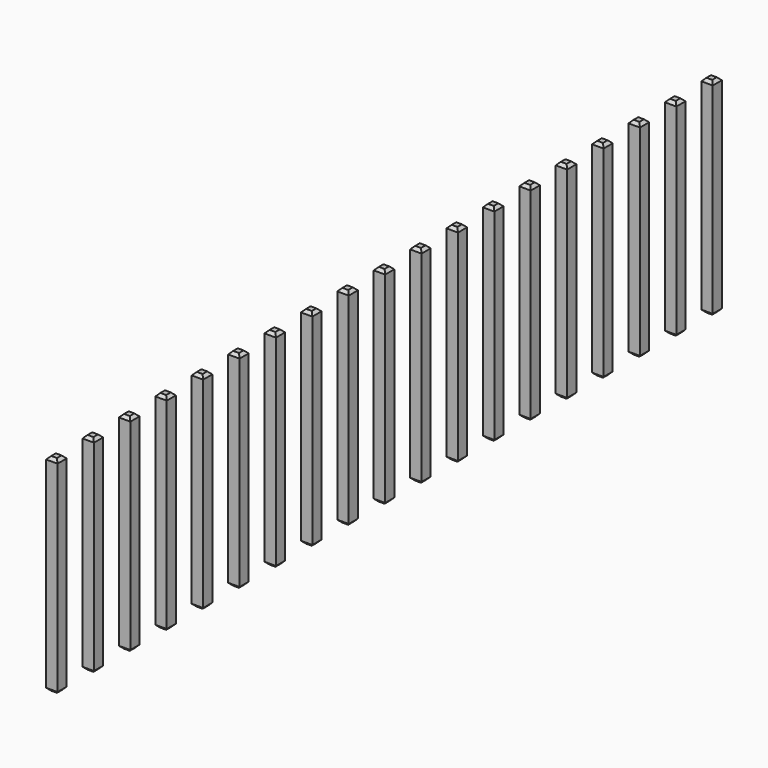
from build123d import *

# Parameters (mm, degrees)
SKETCH207_W       = 0.64
SKETCH207_H       = 11.54
PAD062_DEPTH      = 0.32
PAD062_DEPTH_BACK = 0.32
CHAMFER012_SIZE   = 0.16
ARRAY001_Y_COUNT  = 19
ARRAY001_Y_PITCH  = 2.54


with BuildPart() as part:
    # Sketch207 → Pad062 (new body, two sides)
    with BuildSketch(Plane.XZ) as pad062_sk:
        with Locations((0, 2.77)):
            Rectangle(SKETCH207_W, SKETCH207_H)
    extrude(amount=PAD062_DEPTH)
    extrude(pad062_sk.sketch, amount=-PAD062_DEPTH_BACK)

    # Chamfer012
    chamfer012_edges = [part.edges().sort_by_distance(p)[0] for p in [
        (0.32, 0, 8.54),
        (-0.32, 0, 8.54),
        (0, 0.32, 8.54),
        (0, -0.32, 8.54),
        (-0.32, 0, -3),
        (0.32, 0, -3),
        (0, 0.32, -3),
        (0, -0.32, -3),
    ]]
    chamfer(chamfer012_edges, length=CHAMFER012_SIZE)

    # Array001 Y: part ×19


with BuildPart() as part_1:
    add(part.part)
    with Locations(*[(0, i * ARRAY001_Y_PITCH, 0) for i in range(1, ARRAY001_Y_COUNT)]):
        add(part.part)


solid = part_1.part
